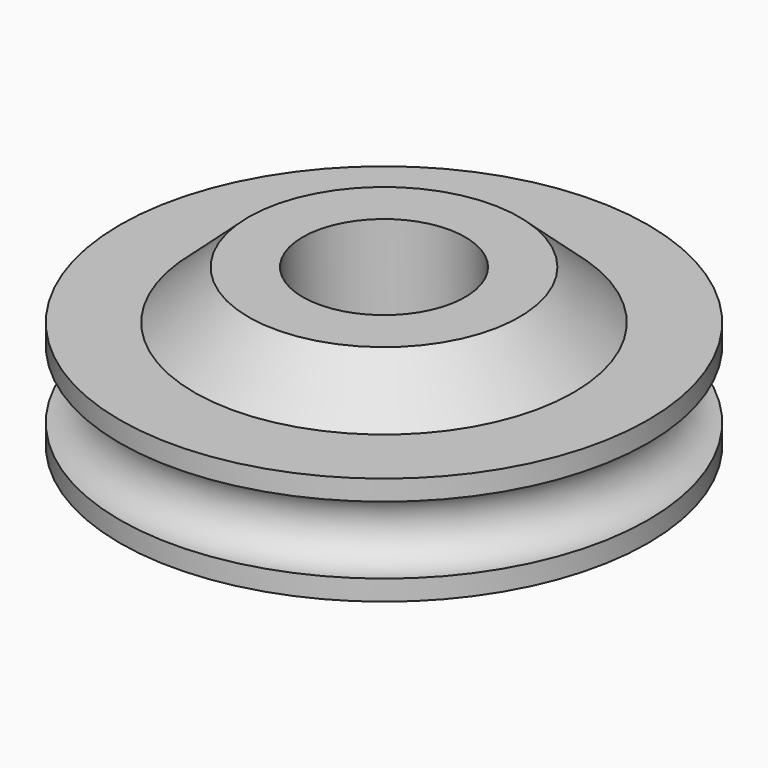
from build123d import *


with BuildPart() as f1:
    # F0 (on Front) → F1 (revolve)
    with BuildSketch(Plane.XZ):
        with BuildLine():
            Line((-9.75, 27.315333), (-3.75, 27.315333))
            Line((-3.75, 27.315333), (-3.75, 29.815333))
            Line((-3.75, 29.815333), (-3, 29.815333))
            Line((-3, 29.815333), (-3, 33.115333))
            Line((-3, 33.115333), (-5, 33.115333))
            Line((-5, 33.115333), (-7, 31.315333))
            Line((-7, 31.315333), (-9.75, 31.315333))
            Line((-9.75, 31.315333), (-9.75, 30.565333))
            ThreePointArc((-9.75, 30.565333), (-8.5, 29.315333), (-9.75, 28.065333))
            Line((-9.75, 28.065333), (-9.75, 27.315333))
        make_face()
    revolve(axis=Axis((0, 0, 30.215333), (0, 0, 1)))


solid = f1.part
